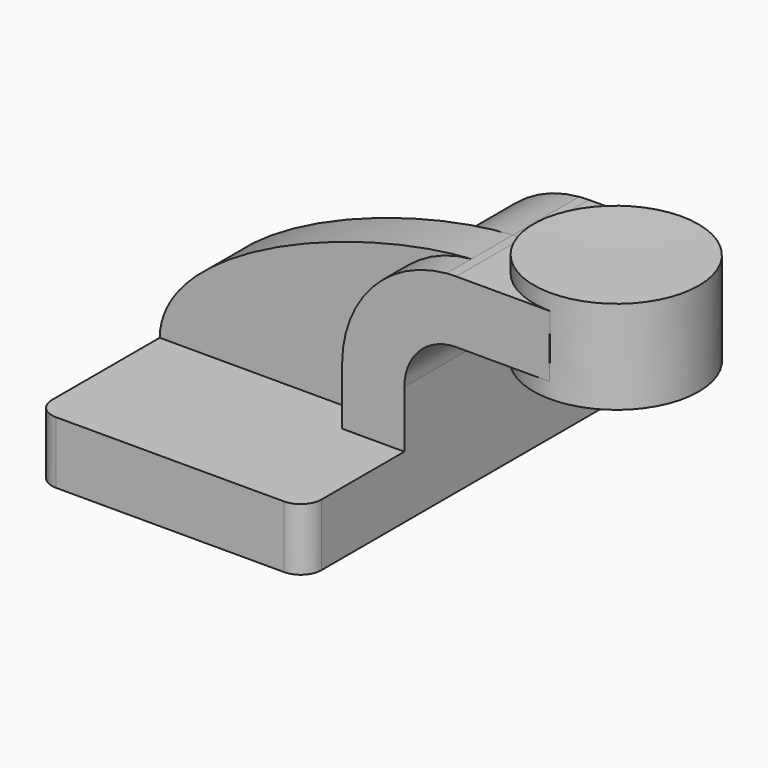
from build123d import *

# Parameters (mm, degrees)
F1_DEPTH = 63.5
F2_DEPTH = 25.4
F3_DEPTH = 15.875
F5_R     = 6.35


with BuildPart() as f1:
    # F0 (on Front) → F1 (new body, symmetric)
    with BuildSketch(Plane.XZ):
        Polygon((-41.275, 9.525), (-41.275, -9.525), (41.275, -9.525), (41.275, 9.525), (22.225, 9.525), align=None)
    extrude(amount=F1_DEPTH, both=True)

    # F0 (on Front) → F2 (join, symmetric)
    with BuildSketch(Plane.XZ):
        with BuildLine():
            Line((22.225, 9.525), (41.275, 9.525))
            Line((41.275, 9.525), (41.275, 27.0002))
            ThreePointArc((41.275, 27.0002), (45.9246798487, 38.2255201513), (57.15, 42.8752))
            Line((57.15, 42.8752), (60.325, 42.8752))
            Line((60.325, 42.8752), (60.325, 61.9252))
            Line((60.325, 61.9252), (57.15, 61.9252))
            add(Edge.make_bspline(
                [(54.201505188, 61.8005161386), (55.2055384053, 61.8594589572), (56.1890341086, 61.9011525736), (57.15, 61.9252)],
                knots=[108.3967265897, 108.3967265897, 108.3967265897, 108.3967265897, 111.5045361635, 111.5045361635, 111.5045361635, 111.5045361635], degree=3))
            ThreePointArc((54.201505188, 61.8005161386), (31.4329647285, 50.6304713028), (22.225, 27.0002))
            Line((22.225, 27.0002), (22.225, 9.525))
        make_face()
        Polygon((85.8293095101, 61.9252), (60.325, 61.9252), (60.325, 42.8752), (85.7459063837, 42.8752), align=None)
    extrude(amount=F2_DEPTH, both=True)

    # F0 (on Front) → F3 (join)
    with BuildSketch(Plane.XZ):
        with BuildLine():
            add(Edge.make_bspline(
                [(-41.275, 9.525), (-40.8220224818, 36.7045980931), (19.1820126646, 59.7446602565), (54.201505188, 61.8005161386)],
                knots=[0, 0, 0, 0, 108.3967265897, 108.3967265897, 108.3967265897, 108.3967265897], degree=3))
            Line((-41.275, 9.525), (22.225, 9.525))
            Line((22.225, 9.525), (22.225, 27.0002))
            ThreePointArc((22.225, 27.0002), (31.4329647285, 50.6304713028), (54.201505188, 61.8005161386))
        make_face()
    extrude(amount=F3_DEPTH)

    # F0 (on Front) → F4 (revolve)
    with BuildSketch(Plane.XZ):
        Polygon((85.8501046896, 66.675), (85.8293095101, 61.9252), (85.7459063837, 42.8752), (85.725, 38.1), (111.125, 38.1), (111.125, 66.675), align=None)
    revolve(axis=Axis((85.7875523448, 0, 52.3875), (0.0043780749, 0, 0.9999904162)))

    # F5
    f5_edges = [f1.edges().sort_by_distance(p)[0] for p in [
        (41.275, -63.5, 0),
        (-41.275, -63.5, 0),
        (41.275, 63.5, 0),
        (-41.275, 63.5, 0),
    ]]
    fillet(f5_edges, radius=F5_R)


solid = f1.part
